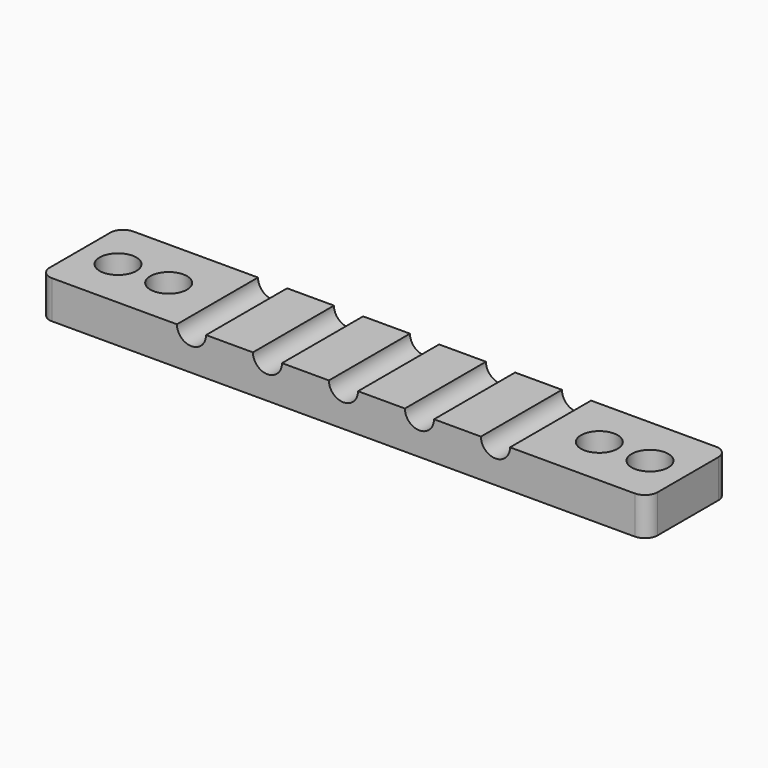
from build123d import *

# Parameters (mm, degrees)
F0_W     = 6
F0_H     = 8
F0_W_2   = 36
F1_DEPTH = 3
F2_D     = 2.9
F4_D     = 2.3
F5_R     = 1


with BuildPart() as f1:
    # F0 (on Top) → F1 (new body)
    with BuildSketch(Plane.XY):
        Rectangle(F0_W, F0_H)
        with Locations((21, 0)):
            Rectangle(F0_W_2, F0_H)
        with Locations((42, 0)):
            Rectangle(F0_W, F0_H)
    extrude(amount=-F1_DEPTH)

    # F2 (through all)
    with Locations(Plane.XY):
        with Locations((0, 0), (4, 0), (38, 0), (42, 0)):
            Hole(F2_D / 2)

    # F4 (through all)
    with Locations(Plane.XZ.offset(4)):
        with Locations((9, 0), (15, 0), (21, 0), (27, 0), (33, 0)):
            Hole(F4_D / 2)

    # F5
    f5_edges = [f1.edges().sort_by_distance(p)[0] for p in [
        (-3, -4, -1.5),
        (45, -4, -1.5),
        (45, 4, -1.5),
        (-3, 4, -1.5),
    ]]
    fillet(f5_edges, radius=F5_R)


solid = f1.part
